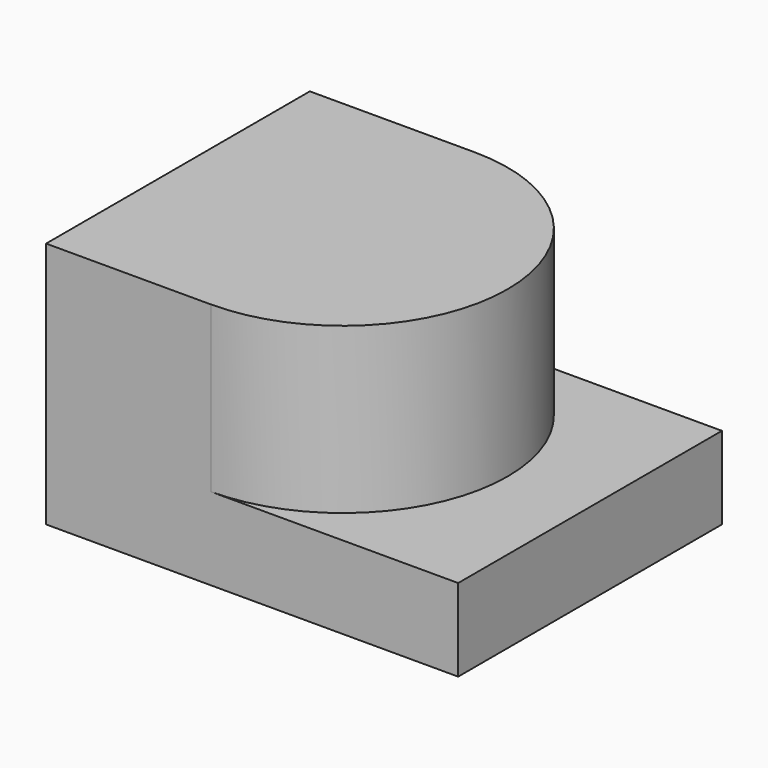
from build123d import *

# Parameters (mm, degrees)
F0_W     = 5
F0_H     = 1
F1_DEPTH = 4
F3_DEPTH = 2


with BuildPart() as f1:
    # F0 (on Front) → F1 (new body)
    with BuildSketch(Plane.XZ):
        with Locations((2.5, 0.5)):
            Rectangle(F0_W, F0_H)
    extrude(amount=F1_DEPTH)

    # F2 (on face) → F3 (join)
    with BuildSketch(Plane.XY.offset(1)):
        with BuildLine():
            Line((2, 0), (0, 0))
            Line((0, 0), (0, -4))
            Line((0, -4), (2, -4))
            ThreePointArc((2, -4), (4, -2), (2, 0))
        make_face()
    extrude(amount=F3_DEPTH)


solid = f1.part
